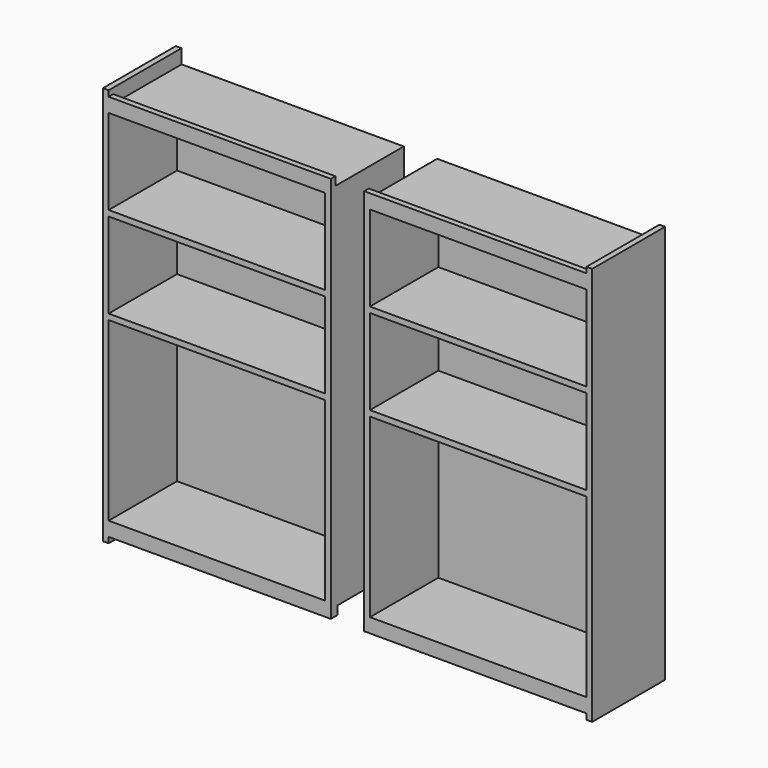
from build123d import *

# Parameters (mm, degrees)
F0_W          = 400
F0_H          = 650
F1_DEPTH      = 10
F2_W          = 10
F2_H          = 25
F2_H_2        = 650
F3_DEPTH      = 150
F3_DEPTH_BACK = 10
F5_DEPTH      = 150
F6_W          = 390
F6_H          = 10
F7_DEPTH      = 15
F8_W          = 390
F8_H          = 15
F9_DEPTH      = 15


with BuildPart() as f1:
    # F0 (on Front) → F1 (new body)
    with BuildSketch(Plane.XZ):
        with Locations((-229.316539192, 110.4799643159)):
            Rectangle(F0_W, F0_H)
    extrude(amount=F1_DEPTH)

    # F2 (on face) → F3 (join, two sides)
    with BuildSketch(Plane.XZ.offset(10)) as f3_sk:
        with Locations((-424.316539192, 447.9799643159)):
            Rectangle(F2_W, F2_H)
        with Locations((-424.316539192, 110.4799643159)):
            Rectangle(F2_W, F2_H_2)
        with Locations((-424.316539192, -227.0200356841)):
            Rectangle(F2_W, F2_H)
    extrude(amount=F3_DEPTH)
    extrude(f3_sk.sketch, amount=-F3_DEPTH_BACK)

    # F4 (on face) → F5 (join)
    with BuildSketch(Plane.XZ.offset(10)):
        Polygon((-419.316539192, 435.4799643159), (-419.316539192, 425.4799643159), (-39.3165391921, 425.4799643159), (-39.316539192, 275.4799643159), (-419.316539192, 275.4799643159), (-419.316539192, 265.4799643159), (-39.3165391921, 265.4799643159), (-39.3165391921, 115.4799643159), (-419.316539192, 115.4799643159), (-419.316539192, 105.4799643159), (-39.316539192, 105.4799643159), (-39.316539192, -204.5200356841), (-419.316539192, -204.5200356841), (-419.316539192, -214.5200356841), (-29.316539192, -214.5200356841), (-29.316539192, 435.4799643159), align=None)
    extrude(amount=F5_DEPTH)

    # F6 (on face) → F7 (join)
    with BuildSketch(Plane.XY.offset(435.4799643159)):
        with Locations((-224.316539192, -155)):
            Rectangle(F6_W, F6_H)
    extrude(amount=F7_DEPTH)

    # F8 (on face) → F9 (join)
    with BuildSketch(Plane(origin=(0, 0, -214.5200356841), x_dir=(1, 0, 0), z_dir=(0, 0, -1))):
        with Locations((-224.316539192, 152.5)):
            Rectangle(F8_W, F8_H)
    extrude(amount=F9_DEPTH)


with BuildPart() as f10_1:
    # F10: instance of F1
    add(f1.part.mirror(Plane.YZ))


solid = Compound([f1.part, f10_1.part])
